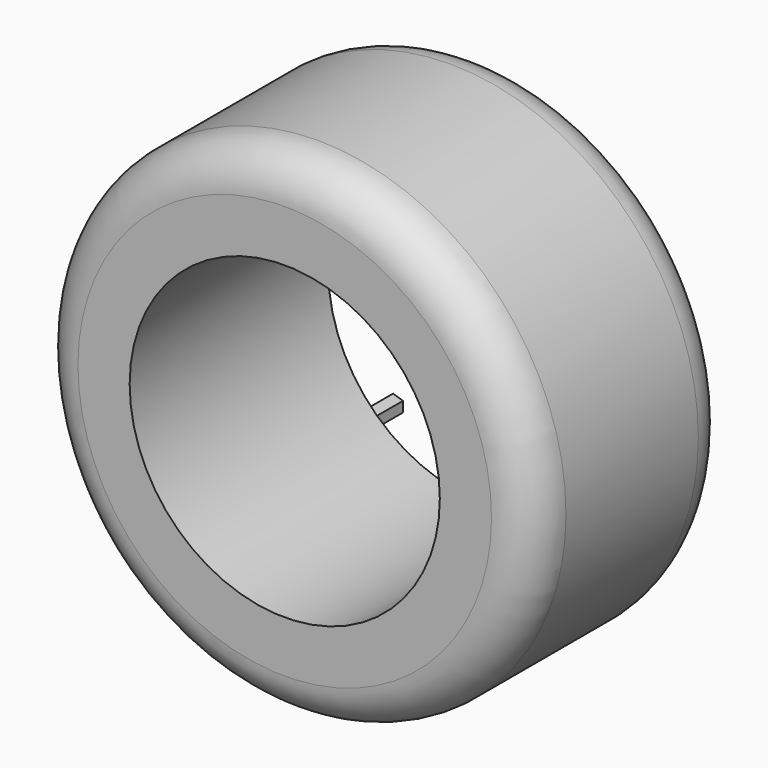
from build123d import *

# Parameters (mm, degrees)
F0_R     = 304.8
F1_DEPTH = 304.8
F2_R     = 190.498437
F3_DEPTH = 645.16
F4_R     = 50.8
F6_DEPTH = 66.04


with BuildPart() as f1:
    # F0 (on Front) → F1 (new body)
    with BuildSketch(Plane.XZ):
        Circle(F0_R)
    extrude(amount=F1_DEPTH)

    # F2 (on face) → F3 (cut)
    with BuildSketch(Plane(origin=(0, 0, 0), x_dir=(-1, 0, 0), z_dir=(0, 1, 0))):
        Circle(F2_R)
    extrude(amount=-F3_DEPTH, mode=Mode.SUBTRACT)

    # F4
    f4_edges = [f1.edges().sort_by_distance(p)[0] for p in [
        (-304.8, -304.8, 0),
        (-304.8, 0, 0),
    ]]
    fillet(f4_edges, radius=F4_R)

    # F5 (on face) → F6 (join)
    with BuildSketch(Plane(origin=(0, 0, 0), x_dir=(-1, 0, 0), z_dir=(0, 1, 0))):
        Polygon((151.48038, -156.267236), (151.48038, -168.967236), (163.558798, -172.891752), (171.023671, -162.617236), (163.558798, -152.342721), align=None)
    extrude(amount=F6_DEPTH)


solid = f1.part
